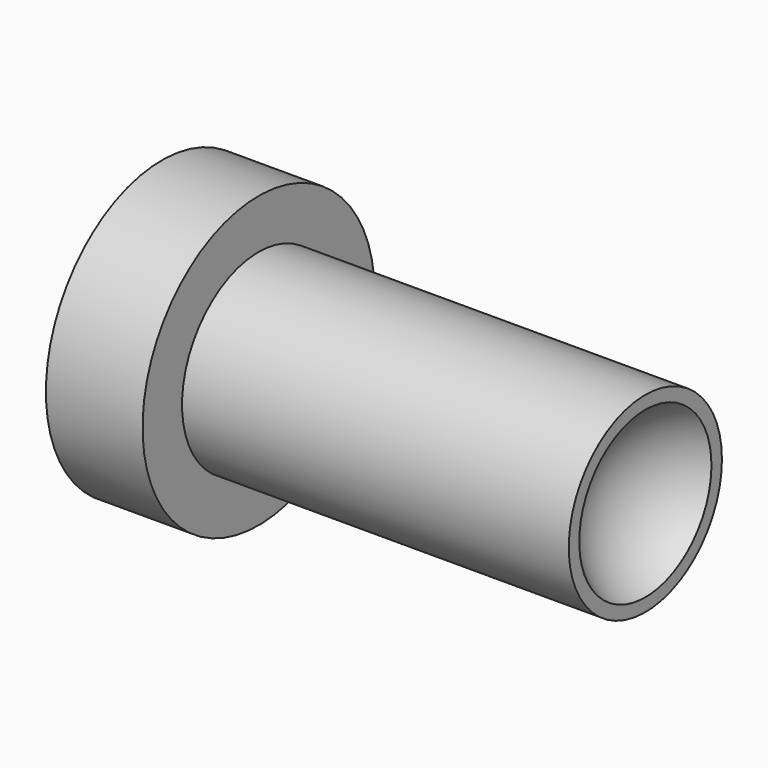
from build123d import *

# Parameters (mm, degrees)
F0_R     = 19.05
F1_DEPTH = 12.7
F2_R     = 12.573
F3_DEPTH = 50.8


with BuildPart() as f1:
    # F0 (on Right) → F1 (new body)
    with BuildSketch(Plane.YZ):
        Circle(F0_R)
    extrude(amount=-F1_DEPTH)

    # F2 (on face) → F3 (join)
    with BuildSketch(Plane.YZ):
        Circle(F2_R)
    extrude(amount=F3_DEPTH)

    # F4 (on Front) → F5 (revolve, cut)
    with BuildSketch(Plane.XZ):
        with BuildLine():
            Line((44.577, 0), (69.723, 0))
            ThreePointArc((69.723, 0), (57.15, 12.573), (44.577, 0))
        make_face()
    revolve(axis=Axis((57.15, 0, 0), (1, 0, 0)), mode=Mode.SUBTRACT)


solid = f1.part
